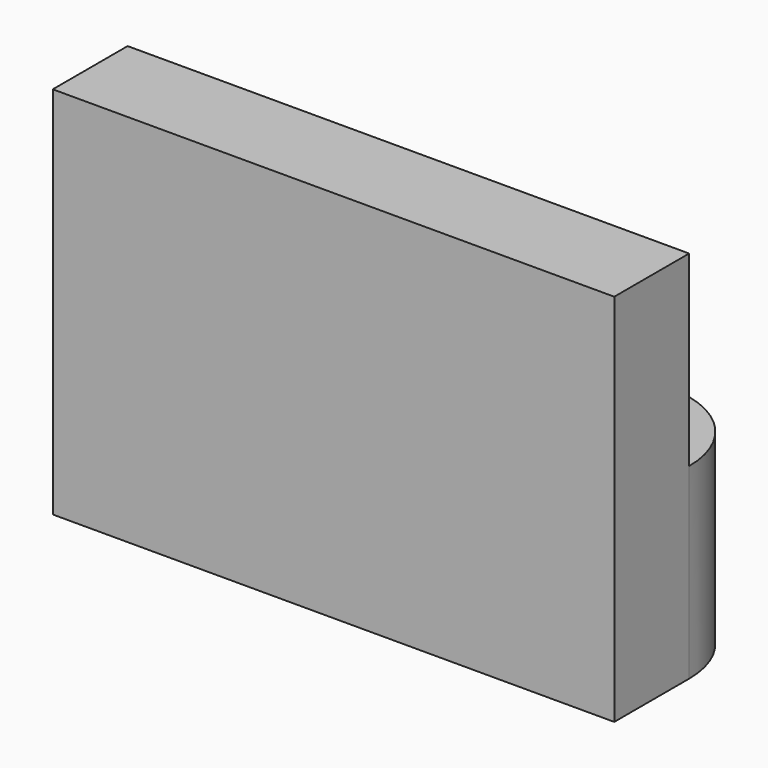
from build123d import *

# Parameters (mm, degrees)
F1_DEPTH = 20
F2_DEPTH = 40


with BuildPart() as f1:
    # F0 (on Top) → F1 (new body)
    with BuildSketch(Plane.XY):
        with BuildLine():
            Line((-20, 0), (-20, -10))
            Line((-20, -10), (0, -10))
            Line((0, -10), (40, -10))
            ThreePointArc((40, -10), (37.0710678119, -2.9289321881), (30, 0))
            Line((30, 0), (20, 0))
            ThreePointArc((20, 0), (0, 20), (-20, 0))
        make_face()
        with BuildLine():
            ThreePointArc((10, 0), (7.0710678119, -7.0710678119), (0, -10))
            ThreePointArc((0, -10), (-7.0710678119, 7.0710678119), (10, 0))
        make_face(mode=Mode.SUBTRACT)
        Polygon((-20, -10), (-20, -20), (40, -20), (40, -10), (0, -10), align=None)
    extrude(amount=F1_DEPTH)

    # F0 (on Top) → F2 (join)
    with BuildSketch(Plane.XY):
        Polygon((-20, -10), (-20, -20), (40, -20), (40, -10), (0, -10), align=None)
    extrude(amount=F2_DEPTH)


solid = f1.part
